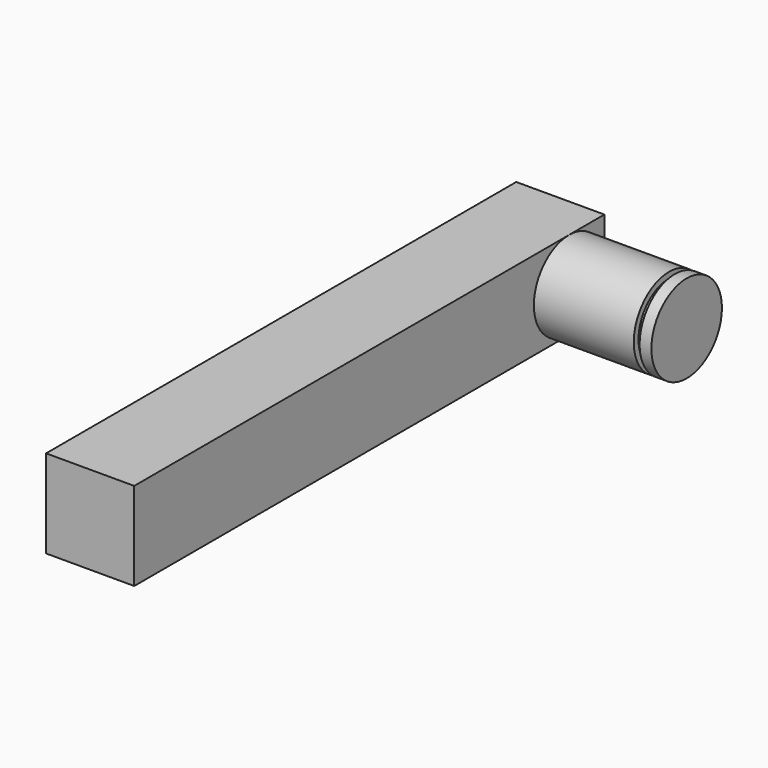
from build123d import *

# Parameters (mm, degrees)
F0_W     = 15
F0_H     = 100
F1_DEPTH = 7.5
F2_R     = 7.5
F3_DEPTH = 17
F4_R     = 6.5
F5_DEPTH = 1
F6_R     = 7.5
F7_DEPTH = 2


with BuildPart() as f1:
    # F0 (on Top) → F1 (new body, symmetric)
    with BuildSketch(Plane.XY):
        with Locations((-7.5, 0)):
            Rectangle(F0_W, F0_H)
    extrude(amount=F1_DEPTH, both=True)

    # F2 (on face) → F3 (join)
    with BuildSketch(Plane.YZ):
        with Locations((42.5, 0)):
            Circle(F2_R)
    extrude(amount=F3_DEPTH)

    # F4 (on face) → F5 (join)
    with BuildSketch(Plane.YZ.offset(17)):
        with Locations((42.5, 0)):
            Circle(F4_R)
    extrude(amount=F5_DEPTH)

    # F6 (on face) → F7 (join)
    with BuildSketch(Plane.YZ.offset(18)):
        with Locations((42.5, 0)):
            Circle(F6_R)
    extrude(amount=F7_DEPTH)


solid = f1.part
